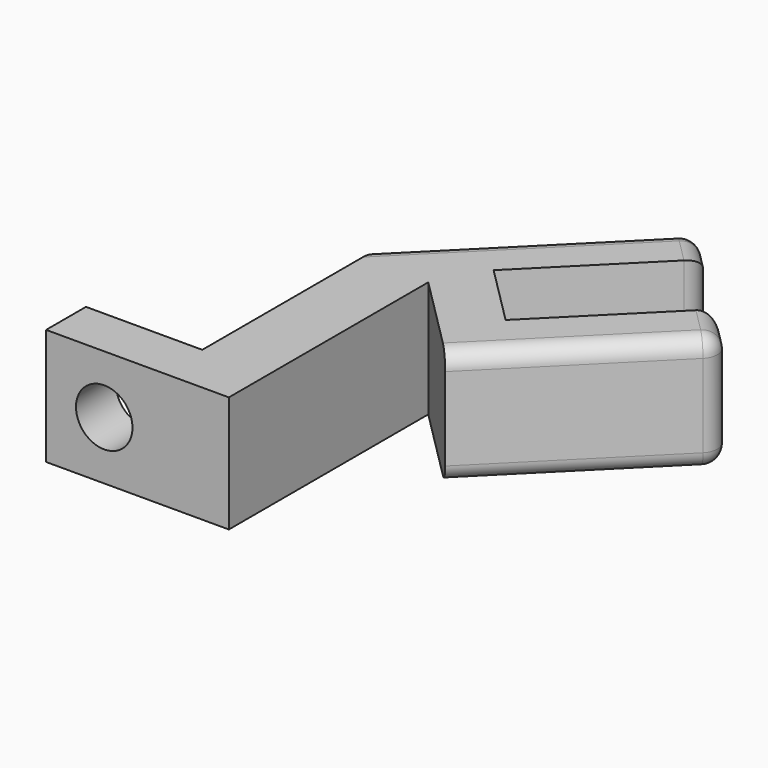
from build123d import *

# Parameters (mm, degrees)
PAD_DEPTH    = 7
SKETCH001_R  = 1.7
POCKET_DEPTH = 5
FILLET_R     = 1


with BuildPart() as part:
    # Sketch → Pad (new body)
    with BuildSketch(Plane.XY):
        Polygon((-4, 3), (-4, 16.494625), (6.578848, 27.073473), (8.700169, 24.952153), (1.629101, 17.881085), (5.235345, 14.274841), (12.306413, 21.345908), (14.427734, 19.224588), (5.101573, 9.898427), (0, 15), (0, 0), (-11, 0), (-11, 3), align=None)
    extrude(amount=PAD_DEPTH)

    # Sketch001 → Pocket (cut)
    with BuildSketch(Plane(origin=(0, 3, 0), x_dir=(-1, 0, 0), z_dir=(0, 1, 0))):
        with Locations((7.500211, 3.503477)):
            Circle(SKETCH001_R)
    extrude(amount=-POCKET_DEPTH, mode=Mode.SUBTRACT)

    # Fillet
    fillet_edges = [part.edges().sort_by_distance(p)[0] for p in [
        (8.700169, 24.952153, 3.5),
        (12.306413, 21.345908, 3.5),
        (7.639509, 26.012813, 7),
        (1.289424, 21.784049, 7),
        (6.578848, 27.073473, 3.5),
        (7.639509, 26.012813, 0),
        (1.289424, 21.784049, 0),
        (13.367073, 20.285248, 7),
        (13.367073, 20.285248, 0),
        (14.427734, 19.224588, 3.5),
        (9.764653, 14.561508, 7),
        (9.764653, 14.561508, 0),
        (-4, 16.494625, 3.5),
    ]]
    fillet(fillet_edges, radius=FILLET_R)


solid = part.part
